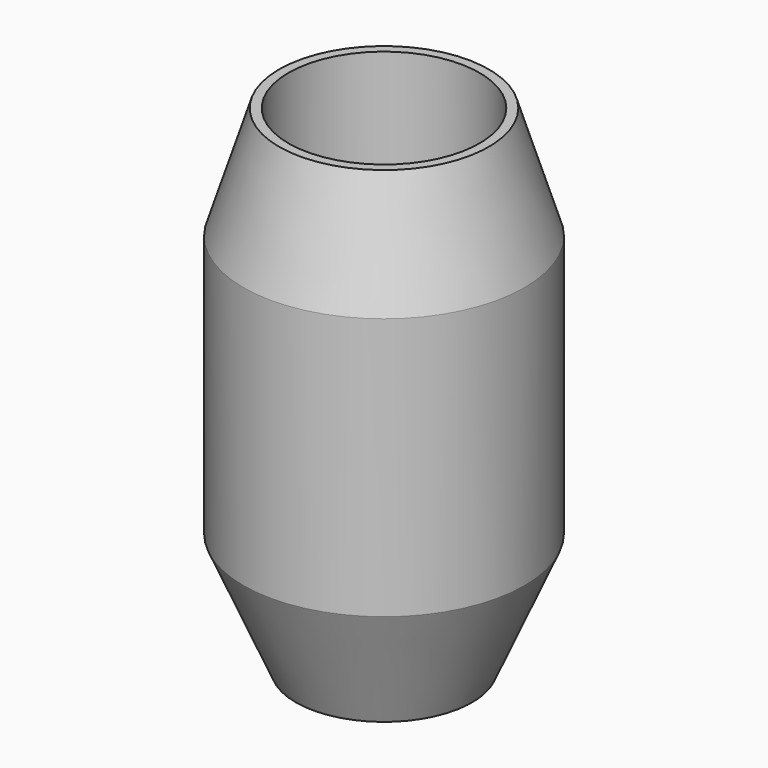
from build123d import *

# Parameters (mm, degrees)
F2_R     = 1
F3_DEPTH = 8.5


with BuildPart() as f1:
    # F0 (on Front) → F1 (revolve)
    with BuildSketch(Plane.XZ):
        with BuildLine():
            ThreePointArc((-3.709447, 0), (-2.884189, 0.706121), (-1.92812, 1.221478))
            Line((-1.92812, 1.221478), (-2.000034, 4.220822))
            Line((-2.000034, 4.220822), (-3.699907, 4.200021))
            Line((-3.699907, 4.200021), (-3.709447, 6.4))
            Line((-3.709447, 6.4), (-5.1, 6.4))
            Line((-5.1, 6.4), (-5.1, 26.4))
            Line((-5.1, 26.4), (-5.6, 26.4))
            Line((-5.6, 26.4), (-7.5, 20.4))
            Line((-7.5, 20.4), (-7.5, 6.4))
            Line((-7.5, 6.4), (-4.709447, 0))
            Line((-4.709447, 0), (-3.709447, 0))
        make_face()
    revolve(axis=Axis((0, 0, 11.948853), (0, 0, 1)))

    # F2 (on Right) → F3 (cut)
    with BuildSketch(Plane.YZ):
        with Locations((0, 13.408476)):
            Circle(F2_R)
    extrude(amount=-F3_DEPTH, mode=Mode.SUBTRACT)


solid = f1.part
